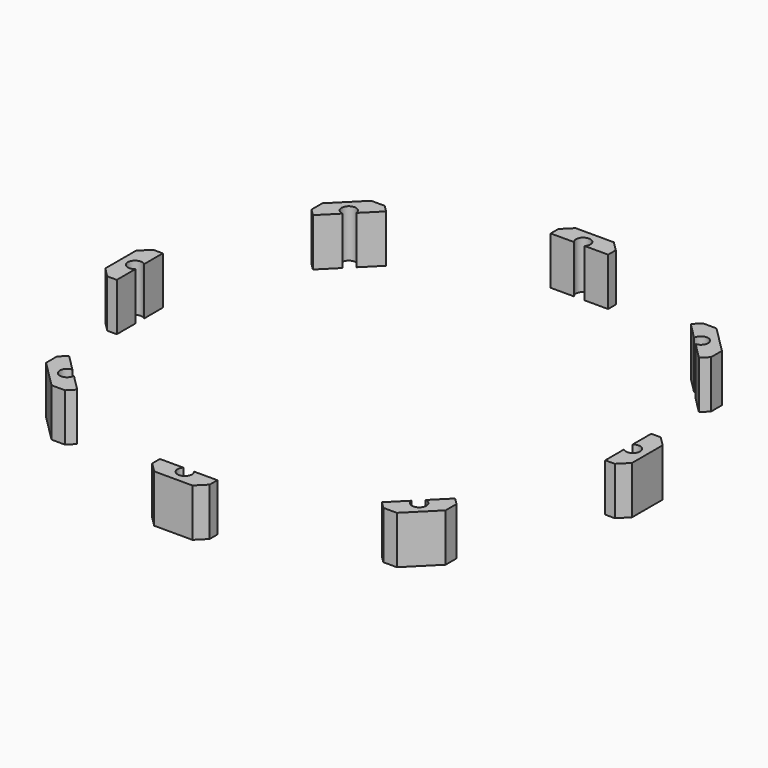
from build123d import *

# Parameters (mm, degrees)
CYLINDER1433_R               = 1.5
CYLINDER1433_DEPTH           = 50
CYLINDER1433_PLACEMENT_ANGLE = 45
CYLINDER1431_R               = 1.5
CYLINDER1431_DEPTH           = 50
CYLINDER1438_R               = 1.5
CYLINDER1438_DEPTH           = 50
CYLINDER1438_PLACEMENT_ANGLE = 135
CYLINDER1434_R               = 1.5
CYLINDER1434_DEPTH           = 50
CYLINDER1435_R               = 1.5
CYLINDER1435_DEPTH           = 50
CYLINDER1435_PLACEMENT_ANGLE = 225
CYLINDER1436_R               = 1.5
CYLINDER1436_DEPTH           = 50
CYLINDER1437_R               = 1.5
CYLINDER1437_DEPTH           = 50
CYLINDER1437_PLACEMENT_ANGLE = 45
CYLINDER1432_R               = 1.5
CYLINDER1432_DEPTH           = 50
BOX600_W                     = 4
BOX600_H                     = 12
BOX600_DEPTH                 = 10
CHAMFER040_SIZE              = 2
CHAMFER040_PLACEMENT_ANGLE   = 45
CHAMFER041_SIZE              = 2
CHAMFER041_PLACEMENT_ANGLE   = 90
CHAMFER042_SIZE              = 2
CHAMFER042_PLACEMENT_ANGLE   = 135
CHAMFER043_SIZE              = 2
CHAMFER043_PLACEMENT_ANGLE   = 180
CHAMFER044_SIZE              = 2
CHAMFER044_PLACEMENT_ANGLE   = 225
CHAMFER045_SIZE              = 2
CHAMFER045_PLACEMENT_ANGLE   = 90
CHAMFER046_SIZE              = 2
CHAMFER046_PLACEMENT_ANGLE   = 45
CHAMFER039_SIZE              = 2


with BuildPart() as obj1:
    # Cylinder1433 → Cylinder1433 (new body)
    with BuildSketch(Plane.XY):
        Circle(CYLINDER1433_R)
    extrude(amount=CYLINDER1433_DEPTH)


with BuildPart() as obj1_1:
    # Cylinder1433 placement: moved
    add(obj1.part.moved(Location((36.769553, 36.769553, 0))).rotate(Axis((36.769553, 36.769553, 0), (0, 0, 1)), CYLINDER1433_PLACEMENT_ANGLE))


with BuildPart() as obj2:
    # Cylinder1431 → Cylinder1431 (new body)
    with BuildSketch(Plane(origin=(0, 52, 0), x_dir=(0, 1, 0), z_dir=(0, 0, 1))):
        Circle(CYLINDER1431_R)
    extrude(amount=CYLINDER1431_DEPTH)


with BuildPart() as obj3:
    # Cylinder1438 → Cylinder1438 (new body)
    with BuildSketch(Plane.XY):
        Circle(CYLINDER1438_R)
    extrude(amount=CYLINDER1438_DEPTH)


with BuildPart() as obj3_1:
    # Cylinder1438 placement: moved
    add(obj3.part.moved(Location((-36.769553, 36.769553, 0))).rotate(Axis((-36.769553, 36.769553, 0), (0, 0, 1)), CYLINDER1438_PLACEMENT_ANGLE))


with BuildPart() as obj4:
    # Cylinder1434 → Cylinder1434 (new body)
    with BuildSketch(Plane(origin=(-52, 0, 0), x_dir=(-1, 0, 0), z_dir=(0, 0, 1))):
        Circle(CYLINDER1434_R)
    extrude(amount=CYLINDER1434_DEPTH)


with BuildPart() as obj5:
    # Cylinder1435 → Cylinder1435 (new body)
    with BuildSketch(Plane.XY):
        Circle(CYLINDER1435_R)
    extrude(amount=CYLINDER1435_DEPTH)


with BuildPart() as obj5_1:
    # Cylinder1435 placement: moved
    add(obj5.part.moved(Location((-36.769553, -36.769553, 0))).rotate(Axis((-36.769553, -36.769553, 0), (0, 0, 1)), CYLINDER1435_PLACEMENT_ANGLE))


with BuildPart() as obj6:
    # Cylinder1436 → Cylinder1436 (new body)
    with BuildSketch(Plane(origin=(0, -52, 0), x_dir=(0, -1, 0), z_dir=(0, 0, 1))):
        Circle(CYLINDER1436_R)
    extrude(amount=CYLINDER1436_DEPTH)


with BuildPart() as obj7:
    # Cylinder1437 → Cylinder1437 (new body)
    with BuildSketch(Plane.XY):
        Circle(CYLINDER1437_R)
    extrude(amount=CYLINDER1437_DEPTH)


with BuildPart() as obj7_1:
    # Cylinder1437 placement: moved
    add(obj7.part.moved(Location((36.769553, -36.769553, 0))).rotate(Axis((36.769553, -36.769553, 0), (0, 0, -1)), CYLINDER1437_PLACEMENT_ANGLE))


with BuildPart() as compound973:
    # Cylinder1432 → Cylinder1432 (new body)
    with BuildSketch(Plane(origin=(52, 0, 0), x_dir=(1, 0, 0), z_dir=(0, 0, 1))):
        Circle(CYLINDER1432_R)
    extrude(amount=CYLINDER1432_DEPTH)

    # Compound973: union obj1, obj2, obj3, obj4, obj5, obj6, obj7
    add(obj1_1.part)
    add(obj2.part)
    add(obj3_1.part)
    add(obj4.part)
    add(obj5_1.part)
    add(obj6.part)
    add(obj7_1.part)


with BuildPart() as compound973_1:
    # Compound973 placement: moved
    add(compound973.part.moved(Location((0, 0, -7))))


with BuildPart() as krychle600:
    # Box600 → Box600 (new body)
    with BuildSketch(Plane(origin=(51, -6, 12), x_dir=(1, 0, 0), z_dir=(0, 0, 1))):
        with Locations((2, 6)):
            Rectangle(BOX600_W, BOX600_H)
    extrude(amount=BOX600_DEPTH)


with BuildPart() as chamfer040:
    # Chamfer040 base: copy of Krychle600
    add(krychle600.part)

    # Chamfer040
    chamfer040_edges = [chamfer040.edges().sort_by_distance(p)[0] for p in [
        (55, -6, 17),
        (55, 6, 17),
    ]]
    chamfer(chamfer040_edges, length=CHAMFER040_SIZE)


with BuildPart() as chamfer040_1:
    # Chamfer040 placement: moved
    add(chamfer040.part.rotate(Axis((0, 0, 0), (0, 0, 1)), CHAMFER040_PLACEMENT_ANGLE))


with BuildPart() as chamfer041:
    # Chamfer041 base: copy of Krychle600
    add(krychle600.part)

    # Chamfer041
    chamfer041_edges = [chamfer041.edges().sort_by_distance(p)[0] for p in [
        (55, -6, 17),
        (55, 6, 17),
    ]]
    chamfer(chamfer041_edges, length=CHAMFER041_SIZE)


with BuildPart() as chamfer041_1:
    # Chamfer041 placement: moved
    add(chamfer041.part.rotate(Axis((0, 0, 0), (0, 0, 1)), CHAMFER041_PLACEMENT_ANGLE))


with BuildPart() as chamfer042:
    # Chamfer042 base: copy of Krychle600
    add(krychle600.part)

    # Chamfer042
    chamfer042_edges = [chamfer042.edges().sort_by_distance(p)[0] for p in [
        (55, -6, 17),
        (55, 6, 17),
    ]]
    chamfer(chamfer042_edges, length=CHAMFER042_SIZE)


with BuildPart() as chamfer042_1:
    # Chamfer042 placement: moved
    add(chamfer042.part.rotate(Axis((0, 0, 0), (0, 0, 1)), CHAMFER042_PLACEMENT_ANGLE))


with BuildPart() as chamfer043:
    # Chamfer043 base: copy of Krychle600
    add(krychle600.part)

    # Chamfer043
    chamfer043_edges = [chamfer043.edges().sort_by_distance(p)[0] for p in [
        (55, -6, 17),
        (55, 6, 17),
    ]]
    chamfer(chamfer043_edges, length=CHAMFER043_SIZE)


with BuildPart() as chamfer043_1:
    # Chamfer043 placement: moved
    add(chamfer043.part.rotate(Axis((0, 0, 0), (0, 0, 1)), CHAMFER043_PLACEMENT_ANGLE))


with BuildPart() as chamfer044:
    # Chamfer044 base: copy of Krychle600
    add(krychle600.part)

    # Chamfer044
    chamfer044_edges = [chamfer044.edges().sort_by_distance(p)[0] for p in [
        (55, -6, 17),
        (55, 6, 17),
    ]]
    chamfer(chamfer044_edges, length=CHAMFER044_SIZE)


with BuildPart() as chamfer044_1:
    # Chamfer044 placement: moved
    add(chamfer044.part.rotate(Axis((0, 0, 0), (0, 0, 1)), CHAMFER044_PLACEMENT_ANGLE))


with BuildPart() as chamfer045:
    # Chamfer045 base: copy of Krychle600
    add(krychle600.part)

    # Chamfer045
    chamfer045_edges = [chamfer045.edges().sort_by_distance(p)[0] for p in [
        (55, -6, 17),
        (55, 6, 17),
    ]]
    chamfer(chamfer045_edges, length=CHAMFER045_SIZE)


with BuildPart() as chamfer045_1:
    # Chamfer045 placement: moved
    add(chamfer045.part.rotate(Axis((0, 0, 0), (0, 0, -1)), CHAMFER045_PLACEMENT_ANGLE))


with BuildPart() as chamfer046:
    # Chamfer046 base: copy of Krychle600
    add(krychle600.part)

    # Chamfer046
    chamfer046_edges = [chamfer046.edges().sort_by_distance(p)[0] for p in [
        (55, -6, 17),
        (55, 6, 17),
    ]]
    chamfer(chamfer046_edges, length=CHAMFER046_SIZE)


with BuildPart() as chamfer046_1:
    # Chamfer046 placement: moved
    add(chamfer046.part.rotate(Axis((0, 0, 0), (0, 0, -1)), CHAMFER046_PLACEMENT_ANGLE))


with BuildPart() as cut520:
    # Chamfer039 base: copy of Krychle600
    add(krychle600.part)

    # Chamfer039
    chamfer039_edges = [cut520.edges().sort_by_distance(p)[0] for p in [
        (55, -6, 17),
        (55, 6, 17),
    ]]
    chamfer(chamfer039_edges, length=CHAMFER039_SIZE)

    # Compound974: union Chamfer040, Chamfer041, Chamfer042, Chamfer043, Chamfer044, Chamfer045, Chamfer046
    add(chamfer040_1.part)
    add(chamfer041_1.part)
    add(chamfer042_1.part)
    add(chamfer043_1.part)
    add(chamfer044_1.part)
    add(chamfer045_1.part)
    add(chamfer046_1.part)

    # Cut520: cut Compound973
    add(compound973_1.part, mode=Mode.SUBTRACT)


solid = cut520.part
